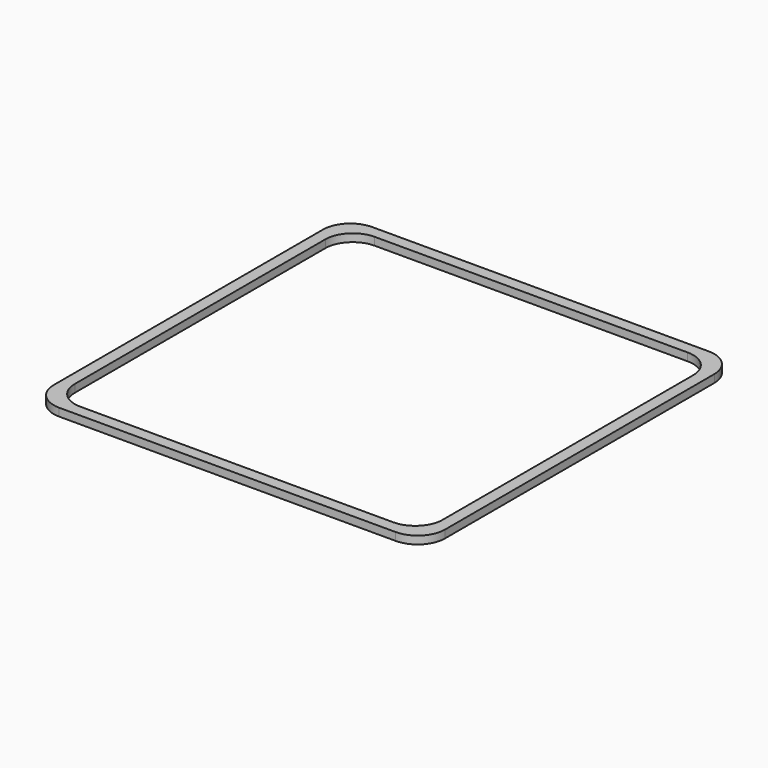
from build123d import *

# Parameters (mm, degrees)
BOX010_W     = 94
BOX010_H     = 94
BOX010_DEPTH = 2
FILLET011_R  = 7
BOX009_W     = 100
BOX009_H     = 100
BOX009_DEPTH = 2
FILLET010_R  = 7


with BuildPart() as top_with_fillets004:
    # Box010 → Box010 (new body)
    with BuildSketch(Plane(origin=(3, 3, 0), x_dir=(1, 0, 0), z_dir=(0, 0, 1))):
        with Locations((47, 47)):
            Rectangle(BOX010_W, BOX010_H)
    extrude(amount=BOX010_DEPTH)

    # Fillet011
    fillet011_edges = [top_with_fillets004.edges().sort_by_distance(p)[0] for p in [
        (3, 3, 1),
        (3, 97, 1),
        (97, 3, 1),
        (97, 97, 1),
    ]]
    fillet(fillet011_edges, radius=FILLET011_R)


with BuildPart() as stacker:
    # Box009 → Box009 (new body)
    with BuildSketch(Plane.XY):
        with Locations((50, 50)):
            Rectangle(BOX009_W, BOX009_H)
    extrude(amount=BOX009_DEPTH)

    # Fillet010
    fillet010_edges = [stacker.edges().sort_by_distance(p)[0] for p in [
        (0, 0, 1),
        (0, 100, 1),
        (100, 0, 1),
        (100, 100, 1),
    ]]
    fillet(fillet010_edges, radius=FILLET010_R)

    # Cut003: cut Top with fillets004
    add(top_with_fillets004.part, mode=Mode.SUBTRACT)


with BuildPart() as stacker_1:
    # Cut003 placement: moved
    add(stacker.part.moved(Location((0, 110, 0))))


solid = stacker_1.part
